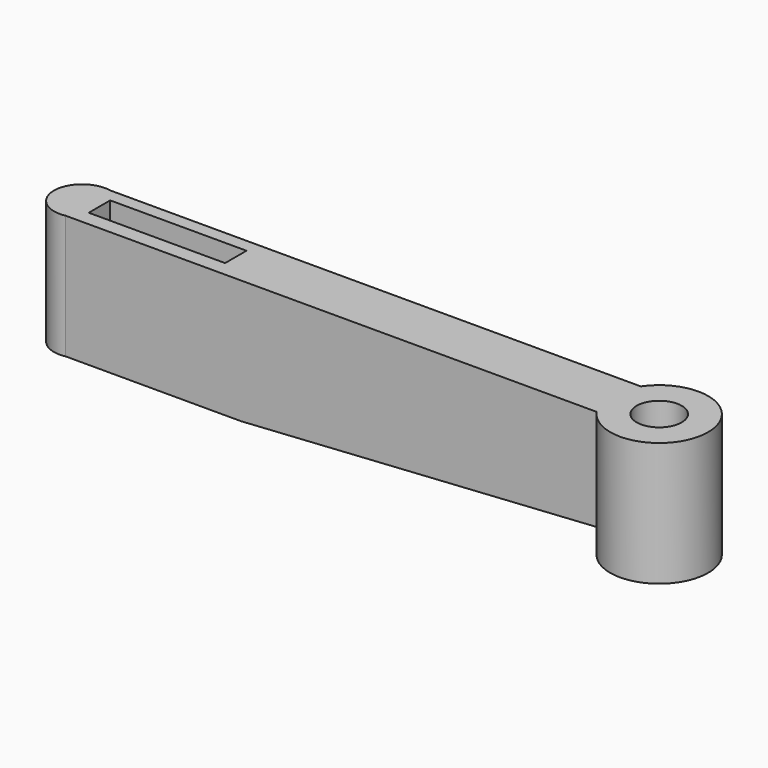
from build123d import *

# Parameters (mm, degrees)
F1_DEPTH = 22
F3_DEPTH = 13.5984562425
F4_W     = 24.2116302252
F4_H     = 2.5544243399
F4_H_2   = 2.1986933425
F5_DEPTH = 22.001
F6_R     = 4.0024769444
F7_DEPTH = 22.001


with BuildPart() as f1:
    # F0 (on Top) → F1 (new body)
    with BuildSketch(Plane.XY):
        with BuildLine():
            Line((-101.4767971394, -4.8974562425), (-7.1906134893, -4.8974562425))
            ThreePointArc((-7.1906134893, -4.8974562425), (8.7, 0), (-7.1906134893, 4.8974562425))
            Line((-7.1906134893, 4.8974562425), (-101.4767971394, 4.8974562425))
            ThreePointArc((-101.4767971394, 4.8974562425), (-107.4842306869, 0), (-101.4767971394, -4.8974562425))
        make_face()
    extrude(amount=F1_DEPTH)

    # F2 (on face) → F3 (cut, through all)
    with BuildSketch(Plane.XZ.offset(4.8974562425)):
        Polygon((-7.1906134893, 3.9995550178), (-70.3336670995, 0), (-7.1906134893, 0), align=None)
    extrude(amount=-F3_DEPTH, mode=Mode.SUBTRACT)

    # F4 (on face) → F5 (cut, through all)
    with BuildSketch(Plane.XY.offset(22)):
        with Locations((-87.4435827136, 1.27721217)):
            Rectangle(F4_W, F4_H)
        with Locations((-87.4435827136, -1.0993466713)):
            Rectangle(F4_W, F4_H_2)
    extrude(amount=-F5_DEPTH, mode=Mode.SUBTRACT)

    # F6 (on face) → F7 (cut, through all)
    with BuildSketch(Plane.XY.offset(22)):
        Circle(F6_R)
    extrude(amount=-F7_DEPTH, mode=Mode.SUBTRACT)


solid = f1.part
